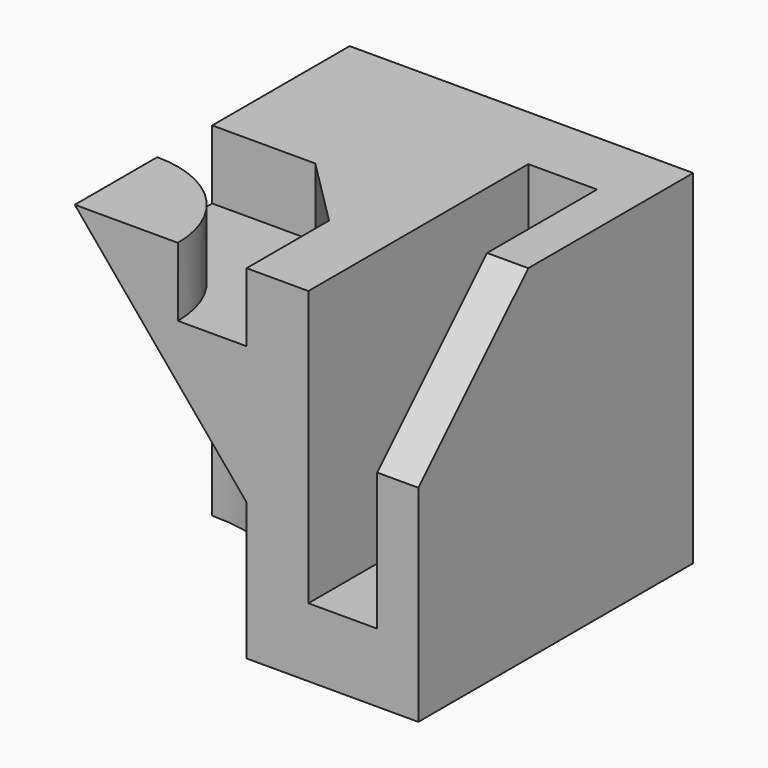
from build123d import *

# Parameters (mm, degrees)
F0_W      = 50
F0_H      = 50
F1_DEPTH  = 50
F2_R      = 25
F3_DEPTH  = 20
F5_W      = 40
F5_H      = 40
F6_DEPTH  = 10
F7_R      = 10
F9_DEPTH  = 6
F10_W     = 25
F10_H     = 25
F11_DEPTH = 10
F12_SIZE  = 10
F14_DEPTH = 10


with BuildPart() as f1:
    # F0 (on Top) → F1 (new body)
    with BuildSketch(Plane.XY):
        with Locations((25, 25)):
            Rectangle(F0_W, F0_H)
    extrude(amount=F1_DEPTH)

    # F2 (on face) → F3 (cut)
    with BuildSketch(Plane(origin=(0, 0, 0), x_dir=(1, 0, 0), z_dir=(0, 0, -1))):
        Circle(F2_R)
    extrude(amount=-F3_DEPTH, mode=Mode.SUBTRACT)

    # F5 (on offset) → F6 (cut)
    with BuildSketch(Plane.YZ.offset(34)):
        with Locations((20, 30)):
            Rectangle(F5_W, F5_H)
    extrude(amount=F6_DEPTH, mode=Mode.SUBTRACT)

    # F7
    f7_edges = [f1.edges().sort_by_distance(p)[0] for p in [
        (39, 40, 10),
    ]]
    fillet(f7_edges, radius=F7_R)

    # F8 (on face) → F9 (cut)
    with BuildSketch(Plane.YZ.offset(50)):
        Polygon((20, 50), (0, 50), (0, 30), align=None)
    extrude(amount=-F9_DEPTH, mode=Mode.SUBTRACT)

    # F10 (on face) → F11 (cut)
    with BuildSketch(Plane.XY.offset(50)):
        with Locations((12.5, 12.5)):
            Rectangle(F10_W, F10_H)
    extrude(amount=-F11_DEPTH, mode=Mode.SUBTRACT)

    # F12
    f12_edges = [f1.edges().sort_by_distance(p)[0] for p in [
        (25, 25, 45),
    ]]
    chamfer(f12_edges, length=F12_SIZE)

    # F13 (on face) → F14 (join)
    with BuildSketch(Plane.XY.offset(40)):
        with BuildLine():
            Line((0, 0), (15, 0))
            ThreePointArc((15, 0), (10.606602, 10.606602), (0, 15))
            Line((0, 15), (0, 0))
        make_face()
    extrude(amount=F14_DEPTH)

    # F3_face (on face) → F16 section 0
    with BuildSketch(Plane(origin=(10.61033, 10.61033, 20), x_dir=(1, 0, 0), z_dir=(0, 0, -1)), mode=Mode.PRIVATE) as f16_s0:
        with BuildLine():
            ThreePointArc((-10.61033, -14.38967), (7.06734, -7.06734), (14.38967, 10.61033))
            Line((14.38967, 10.61033), (-10.61033, 10.61033))
            Line((-10.61033, 10.61033), (-10.61033, -14.38967))
        make_face()
    loft([f16_s0.sketch, Vertex(0, 0, 50)], mode=Mode.SUBTRACT)


solid = f1.part
